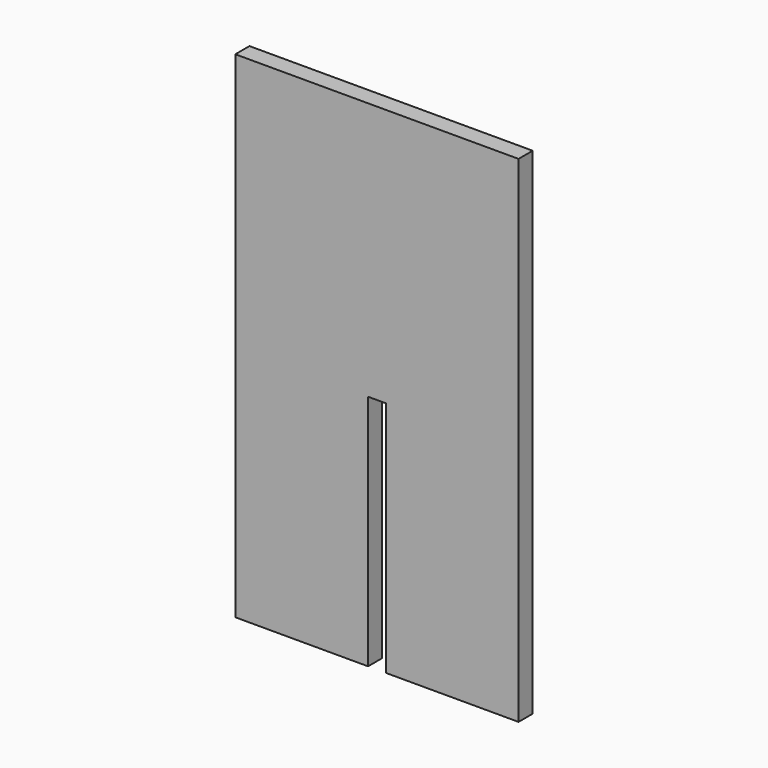
from build123d import *

# Parameters (mm, degrees)
F0_W     = 50.8
F0_H     = 88.9
F1_DEPTH = 3.175
F2_W     = 3.175
F2_H     = 42.8625
F3_DEPTH = 3.175
F4_DEPTH = 3.175


with BuildPart() as f1:
    # F0 (on Front) → F1 (new body)
    with BuildSketch(Plane.XZ):
        Rectangle(F0_W, F0_H)
    extrude(amount=F1_DEPTH)

    # F2 (on face) → F3 (cut)
    with BuildSketch(Plane.XZ.offset(3.175)):
        with Locations((0, -23.309385)):
            Rectangle(F2_W, F2_H)
    extrude(amount=-F3_DEPTH, mode=Mode.SUBTRACT)

    # F2 (on face) → F4 (cut)
    with BuildSketch(Plane.XZ.offset(3.175)):
        with Locations((0, -23.309385)):
            Rectangle(F2_W, F2_H)
    extrude(amount=-F4_DEPTH, mode=Mode.SUBTRACT)


solid = f1.part
